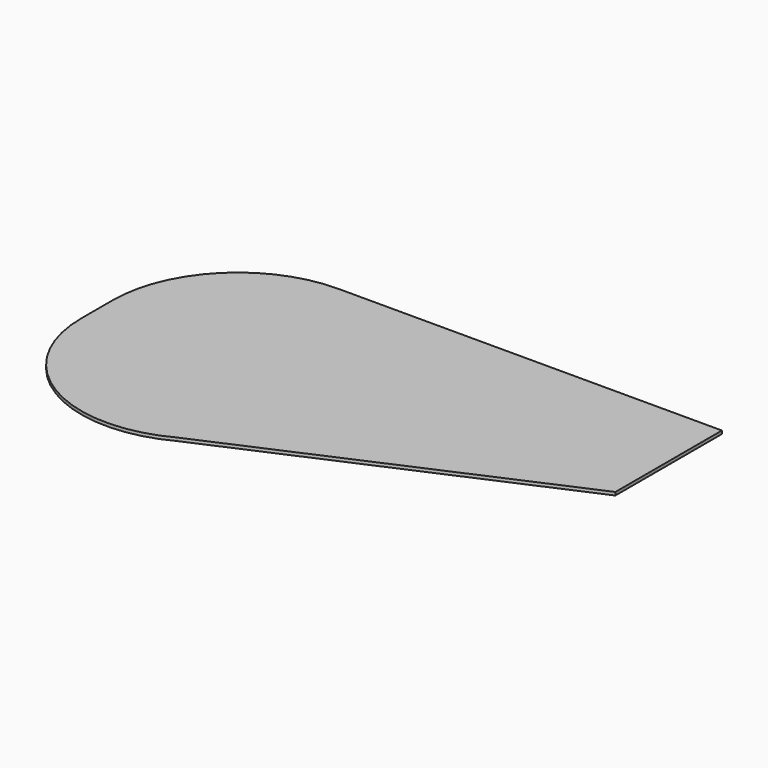
from build123d import *

# Parameters (mm, degrees)
F1_DEPTH = 2


with BuildPart() as f1:
    # F0 (on Top) → F1 (new body)
    with BuildSketch(Plane.XY):
        with BuildLine():
            ThreePointArc((-82.5, 92.5), (-139.068542, 69.068542), (-162.5, 12.5))
            Line((-162.5, 12.5), (-162.5, -12.5))
            ThreePointArc((-162.5, -12.5), (-123.709653, -81.069413), (-44.955888, -83.143044))
            Line((-44.955888, -83.143044), (162.5, 7.5))
            Line((162.5, 7.5), (162.5, 92.5))
            Line((162.5, 92.5), (-82.5, 92.5))
        make_face()
    extrude(amount=F1_DEPTH)


solid = f1.part
